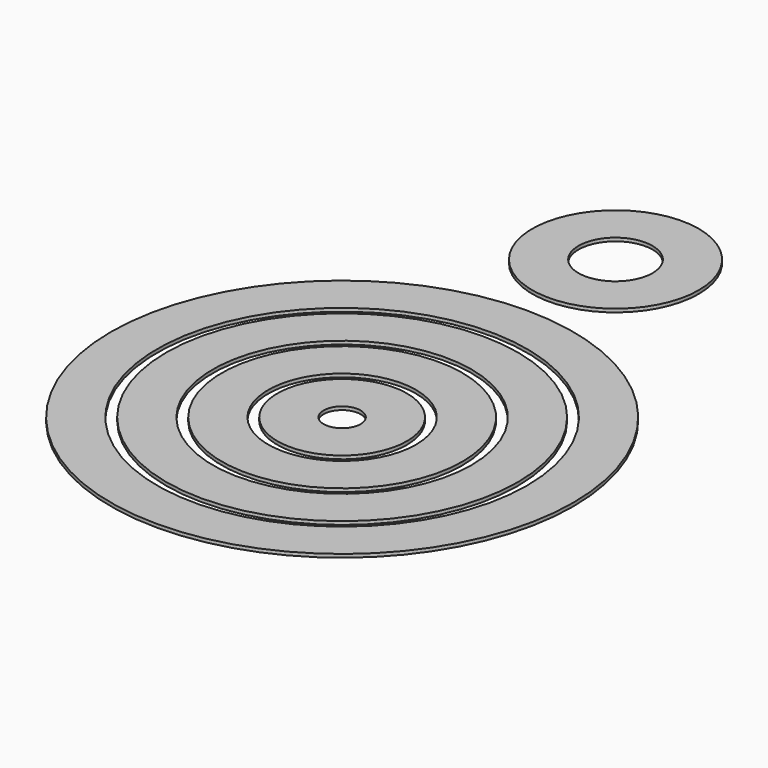
from build123d import *

# Parameters (mm, degrees)
F0_R     = 62.5
F0_R_2   = 50
F0_R_3   = 47.5
F0_R_4   = 35
F0_R_5   = 32.5
F0_R_6   = 20
F0_R_7   = 17.5
F0_R_8   = 5
F0_R_9   = 22.5
F0_R_10  = 10
F1_DEPTH = 0.9


with BuildPart() as f1:
    # F0 (on Top) → F1 (new body)
    with BuildSketch(Plane.XY):
        Circle(F0_R)
        Circle(F0_R_2, mode=Mode.SUBTRACT)
        Circle(F0_R_3)
        Circle(F0_R_4, mode=Mode.SUBTRACT)
        Circle(F0_R_5)
        Circle(F0_R_6, mode=Mode.SUBTRACT)
        Circle(F0_R_7)
        Circle(F0_R_8, mode=Mode.SUBTRACT)
        with Locations((0, 92.377946)):
            Circle(F0_R_9)
        with Locations((0, 92.377946)):
            Circle(F0_R_10, mode=Mode.SUBTRACT)
    extrude(amount=F1_DEPTH)


solid = f1.part
